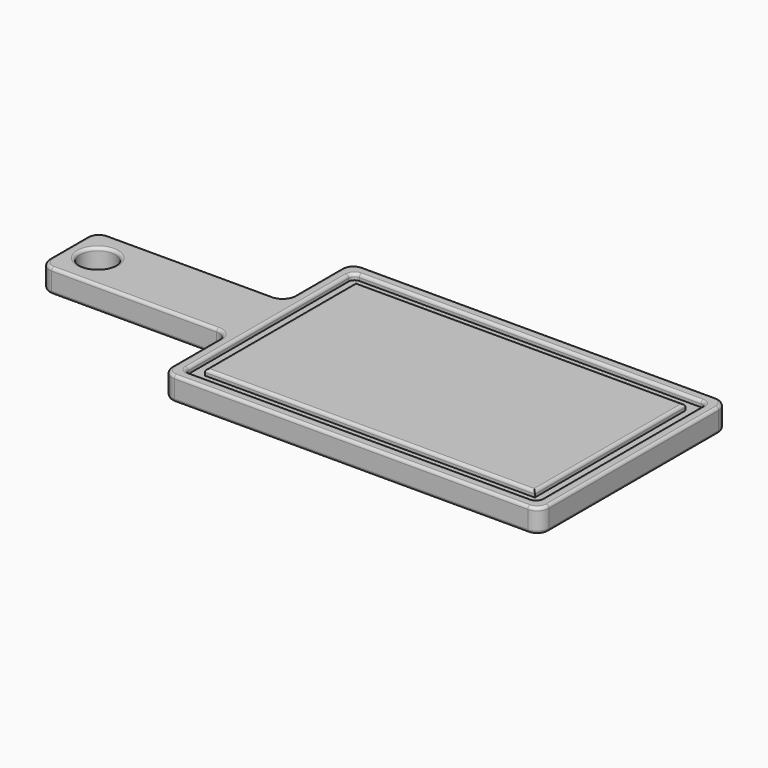
from build123d import *

# Parameters (mm, degrees)
F0_W     = 203.2
F0_H     = 76.2
F1_DEPTH = 25.4
F2_R     = 19.05
F3_DEPTH = 25.4
F5_DEPTH = 6.35
F6_R     = 6.35
F7_R     = 12.7
F8_R     = 3.175


with BuildPart() as f1:
    # F0 (on Top) → F1 (new body)
    with BuildSketch(Plane.XY):
        Polygon((0, 88.9), (0, 0), (406.4, 0), (406.4, 254), (0, 254), (0, 165.1), align=None)
        with Locations((-101.6, 127)):
            Rectangle(F0_W, F0_H)
    extrude(amount=F1_DEPTH)

    # F2 (on face) → F3 (cut)
    with BuildSketch(Plane.XY.offset(25.4)):
        with Locations((-171.45, 127)):
            Circle(F2_R)
    extrude(amount=-F3_DEPTH, mode=Mode.SUBTRACT)

    # F4 (on face) → F5 (cut)
    with BuildSketch(Plane.XY.offset(25.4)):
        Polygon((12.6999982595, 88.9), (12.6999982595, 12.6999982595), (393.7000017405, 12.6999982595), (393.7000017405, 241.3000017405), (12.6999982595, 241.3000017405), (12.6999982595, 165.1), align=None)
        Polygon((25.4000046253, 88.9), (25.4000046253, 165.1), (25.4000046253, 228.5999953747), (380.9999953747, 228.5999953747), (380.9999953747, 25.4000046253), (25.4000046253, 25.4000046253), align=None, mode=Mode.SUBTRACT)
    extrude(amount=-F5_DEPTH, mode=Mode.SUBTRACT)

    # F6
    f6_edges = [f1.edges().sort_by_distance(p)[0] for p in [
        (12.699998, 241.300002, 22.225),
        (393.700002, 12.699998, 22.225),
        (12.699998, 12.699998, 22.225),
        (393.700002, 241.300002, 22.225),
    ]]
    fillet(f6_edges, radius=F6_R)

    # F7
    f7_edges = [f1.edges().sort_by_distance(p)[0] for p in [
        (406.4, 0, 12.7),
        (0, 0, 12.7),
        (0, 88.9, 12.7),
        (-203.2, 88.9, 12.7),
        (-203.2, 165.1, 12.7),
        (0, 165.1, 12.7),
        (0, 254, 12.7),
        (406.4, 254, 12.7),
    ]]
    fillet(f7_edges, radius=F7_R)

    # F8
    f8_edges = [f1.edges().sort_by_distance(p)[0] for p in [
        (203.2, 228.599995, 25.4),
        (380.999995, 127, 25.4),
        (203.2, 25.400005, 25.4),
        (25.400005, 127, 25.4),
        (0, 44.45, 25.4),
        (-3.719744, 85.180256, 25.4),
        (3.719744, 3.719744, 25.4),
        (-101.6, 88.9, 25.4),
        (203.2, 0, 25.4),
        (-199.480256, 92.619744, 25.4),
        (402.680256, 3.719744, 25.4),
        (-203.2, 127, 25.4),
        (406.4, 127, 25.4),
        (-199.480256, 161.380256, 25.4),
        (402.680256, 250.280256, 25.4),
        (-101.6, 165.1, 25.4),
        (203.2, 254, 25.4),
        (-3.719744, 168.819744, 25.4),
        (3.719744, 250.280256, 25.4),
        (0, 209.55, 25.4),
        (203.2, 12.699998, 25.4),
        (14.55987, 14.55987, 25.4),
        (391.84013, 14.55987, 25.4),
        (12.699998, 127, 25.4),
        (393.700002, 127, 25.4),
        (14.55987, 239.44013, 25.4),
        (391.84013, 239.44013, 25.4),
        (203.2, 241.300002, 25.4),
        (-190.5, 127, 25.4),
        (0, 44.45, 0),
        (-3.719744, 85.180256, 0),
        (3.719744, 3.719744, 0),
        (-101.6, 88.9, 0),
        (203.2, 0, 0),
        (-199.480256, 92.619744, 0),
        (402.680256, 3.719744, 0),
        (-203.2, 127, 0),
        (406.4, 127, 0),
        (-199.480256, 161.380256, 0),
        (402.680256, 250.280256, 0),
        (-101.6, 165.1, 0),
        (203.2, 254, 0),
        (-3.719744, 168.819744, 0),
        (3.719744, 250.280256, 0),
        (0, 209.55, 0),
        (-190.5, 127, 0),
    ]]
    fillet(f8_edges, radius=F8_R)


solid = f1.part
